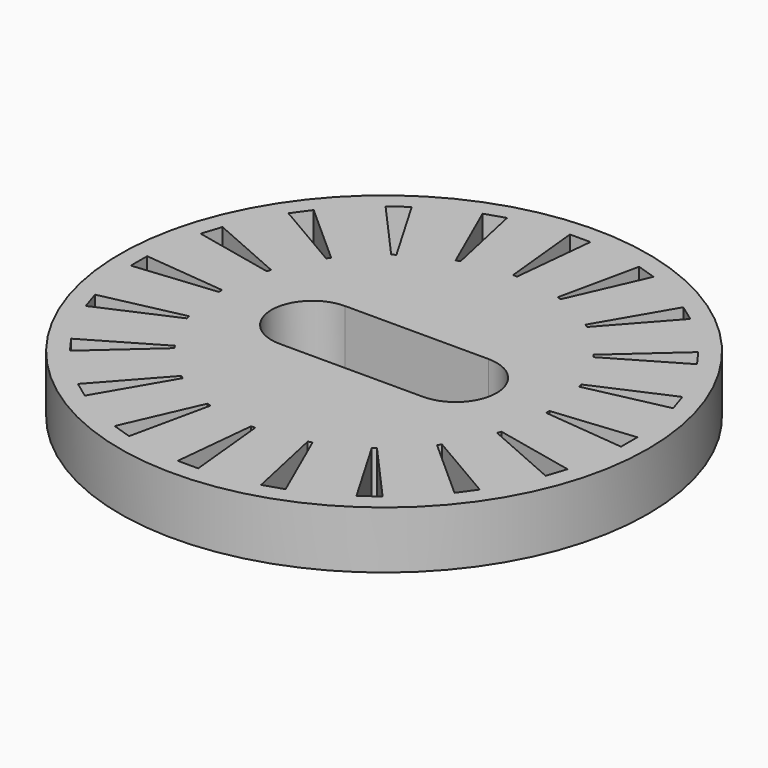
from build123d import *

# Parameters (mm, degrees)
SKETCH_R           = 12.9
PAD_DEPTH          = 2.8
POCKET_DEPTH       = 2.801
POCKET001_DEPTH    = 75.988977
POLARPATTERN_COUNT = 20


with BuildPart() as part:
    # Sketch → Pad (new body)
    with BuildSketch(Plane.XY):
        Circle(SKETCH_R)
    extrude(amount=PAD_DEPTH)

    # Sketch001 → Pocket (cut, through all)
    with BuildSketch(Plane.XY.offset(2.8)):
        with BuildLine():
            ThreePointArc((-3.5, 2), (-5.5, 0), (-3.5, -2))
            Line((-3.5, -2), (3.5, -2))
            ThreePointArc((3.5, -2), (5.5, 0), (3.5, 2))
            Line((-3.5, 2), (3.5, 2))
        make_face()
    extrude(amount=-POCKET_DEPTH, mode=Mode.SUBTRACT)

    # Sketch002 → Pocket001 (cut, through all)
    with BuildSketch(Plane.XY.offset(2.8)):
        Polygon((-0.5, 11.979325), (0.5, 11.979325), (0.1, 7.999375), (-0.1, 7.999375), align=None)
    pocket001 = extrude(amount=-POCKET001_DEPTH, mode=Mode.SUBTRACT)

    # PolarPattern: Pocket001 ×20 about axis
    polarpattern_axis = Axis((0, 0, 2.8), (0, 0, 1))
    for i in range(1, POLARPATTERN_COUNT):
        add(pocket001.rotate(polarpattern_axis, i * 360 / POLARPATTERN_COUNT), mode=Mode.SUBTRACT)


solid = part.part
